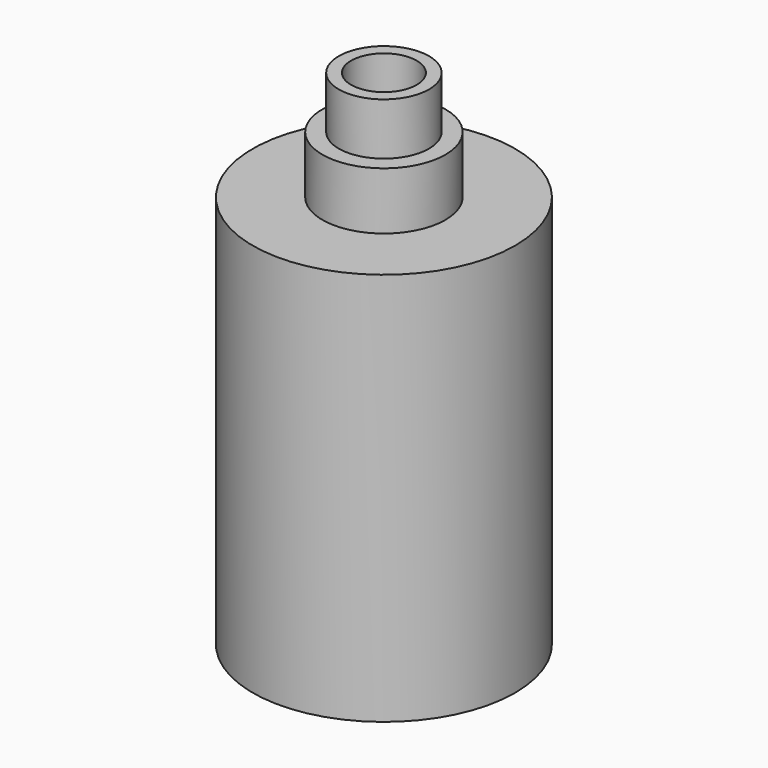
from build123d import *

# Parameters (mm, degrees)
F0_R      = 5.5
F0_R_2    = 4
F1_DEPTH  = 6.36
F2_R      = 16
F2_R_2    = 5.5
F2_R_3    = 4
F3_DEPTH  = 55
F4_R      = 36.2915386418
F4_R_2    = 16
F4_R_3    = 7.5
F5_DEPTH  = 7
F6_R      = 3
F7_DEPTH  = 25
F8_R      = 7.45
F8_R_2    = 4
F9_DEPTH  = 24
F10_R     = 4
F11_DEPTH = 25


with BuildPart() as f1:
    # F0 (on Top) → F1 (new body)
    with BuildSketch(Plane.XY):
        Circle(F0_R)
        Circle(F0_R_2, mode=Mode.SUBTRACT)
    extrude(amount=F1_DEPTH)

    # F2 (on face) → F3 (join)
    with BuildSketch(Plane(origin=(0, 0, 0), x_dir=(1, 0, 0), z_dir=(0, 0, -1))):
        Circle(F2_R)
        Circle(F2_R_2, mode=Mode.SUBTRACT)
        Circle(F2_R_2)
        Circle(F2_R_3, mode=Mode.SUBTRACT)
    extrude(amount=F3_DEPTH)

    # F4 (on face) → F5 (cut)
    with BuildSketch(Plane.XY):
        Circle(F4_R)
        Circle(F4_R_2, mode=Mode.SUBTRACT)
        Circle(F4_R_2)
        Circle(F4_R_3, mode=Mode.SUBTRACT)
    extrude(amount=-F5_DEPTH, mode=Mode.SUBTRACT)

    # F6 (on Right) → F7 (cut)
    with BuildSketch(Plane.YZ):
        with Locations((0, -13.64)):
            Circle(F6_R)
    extrude(amount=-F7_DEPTH, mode=Mode.SUBTRACT)

    # F8 (on face) → F9 (cut)
    with BuildSketch(Plane(origin=(0, 0, -55), x_dir=(1, 0, 0), z_dir=(0, 0, -1))):
        Circle(F8_R)
        Circle(F8_R_2, mode=Mode.SUBTRACT)
    extrude(amount=-F9_DEPTH, mode=Mode.SUBTRACT)

    # F10 (on Right) → F11 (cut)
    with BuildSketch(Plane.YZ):
        with Locations((0, -40.9)):
            Circle(F10_R)
    extrude(amount=-F11_DEPTH, mode=Mode.SUBTRACT)


solid = f1.part
